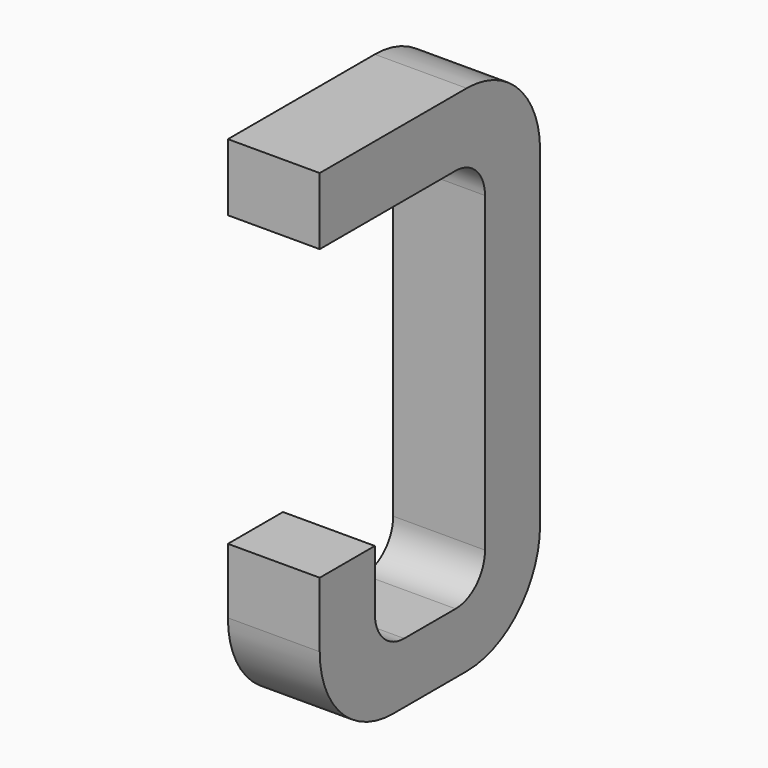
from build123d import *

# Parameters (mm, degrees)
BOX122_W     = 0.5
BOX122_H     = 1.5
BOX122_DEPTH = 2.795
FILLET248_R  = 0.5
FILLET257_R  = 0.5
FILLET244_R  = 0.5
BOX124_W     = 0.75
BOX124_H     = 2.1
BOX124_DEPTH = 1
FILLET240_R  = 0.2
FILLET249_R  = 0.2
FILLET239_R  = 0.2
FILLET241_R  = 0.2
BOX127_W     = 1
BOX127_H     = 1.575
BOX127_DEPTH = 3


with BuildPart() as part:
    # Box122 → Box122 (join)
    with BuildSketch(Plane(origin=(-0.25, 11.125, 0), x_dir=(1, 0, 0), z_dir=(0, 0, 1))):
        with Locations((0.25, 0.75)):
            Rectangle(BOX122_W, BOX122_H)
    extrude(amount=BOX122_DEPTH)

    # Fillet248
    fillet248_edges = [part.edges().sort_by_distance(p)[0] for p in [
        (0, 12.625, 0),
    ]]
    fillet(fillet248_edges, radius=FILLET248_R)

    # Fillet257
    fillet257_edges = [part.edges().sort_by_distance(p)[0] for p in [
        (0, 12.625, 2.795),
    ]]
    fillet(fillet257_edges, radius=FILLET257_R)

    # Fillet244
    fillet244_edges = [part.edges().sort_by_distance(p)[0] for p in [
        (0, 11.125, 0),
    ]]
    fillet(fillet244_edges, radius=FILLET244_R)

    # Box124 → Box124 (cut)
    with BuildSketch(Plane(origin=(-0.5, 11.5, 0.33), x_dir=(0, 1, 0), z_dir=(1, 0, 0))):
        with Locations((0.375, 1.05)):
            Rectangle(BOX124_W, BOX124_H)
    extrude(amount=BOX124_DEPTH, mode=Mode.SUBTRACT)

    # Fillet240
    fillet240_edges = [part.edges().sort_by_distance(p)[0] for p in [
        (0, 11.5, 0.33),
    ]]
    fillet(fillet240_edges, radius=FILLET240_R)

    # Fillet249
    fillet249_edges = [part.edges().sort_by_distance(p)[0] for p in [
        (0, 12.25, 0.33),
    ]]
    fillet(fillet249_edges, radius=FILLET249_R)

    # Fillet239
    fillet239_edges = [part.edges().sort_by_distance(p)[0] for p in [
        (0, 11.5, 2.43),
    ]]
    fillet(fillet239_edges, radius=FILLET239_R)

    # Fillet241
    fillet241_edges = [part.edges().sort_by_distance(p)[0] for p in [
        (0, 12.25, 2.43),
    ]]
    fillet(fillet241_edges, radius=FILLET241_R)

    # Box127 → Box127 (cut)
    with BuildSketch(Plane(origin=(-1, 11, 0.855), x_dir=(0, 1, 0), z_dir=(1, 0, 0))):
        with Locations((0.5, 0.7875)):
            Rectangle(BOX127_W, BOX127_H)
    extrude(amount=BOX127_DEPTH, mode=Mode.SUBTRACT)


with BuildPart() as part_1:
    # Body035 placement: moved
    add(part.part.moved(Location((5.08, 0, 0))))


solid = part_1.part
